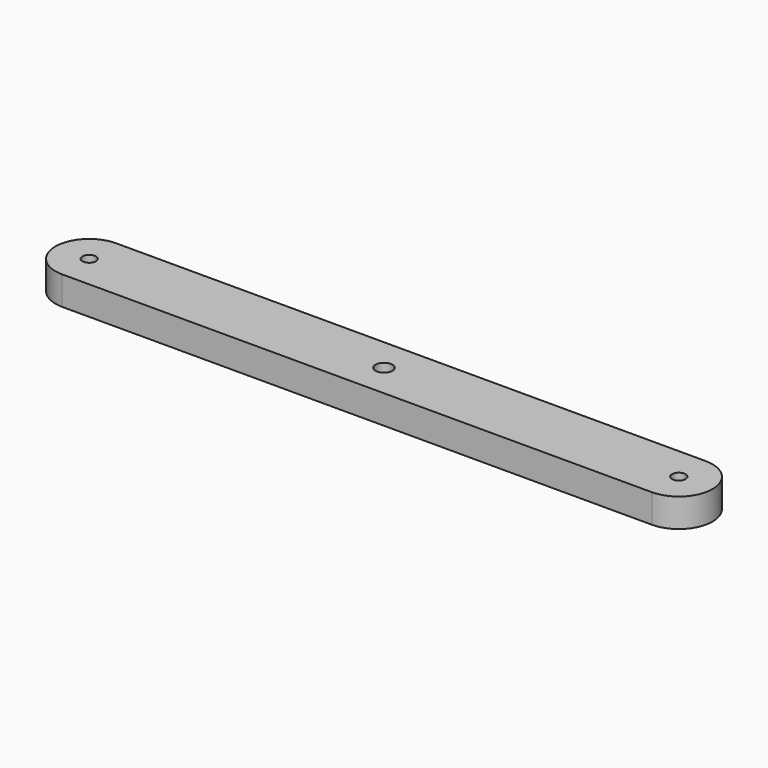
from build123d import *

# Parameters (mm, degrees)
F0_R     = 4
F0_R_2   = 5
F1_DEPTH = 17


with BuildPart() as f1:
    # F0 (on Top) → F1 (new body)
    with BuildSketch(Plane.XY):
        with BuildLine():
            ThreePointArc((175, -19.870425), (195, 0.129575), (175, 20.129575))
            Line((175, 20.129575), (-175, 20.129575))
            ThreePointArc((-175, 20.129575), (-195, 0.129575), (-175, -19.870425))
            Line((-175, -19.870425), (175, -19.870425))
        make_face()
        with Locations((-175, 0.129575)):
            Circle(F0_R, mode=Mode.SUBTRACT)
        with Locations((0, 0.129575)):
            Circle(F0_R_2, mode=Mode.SUBTRACT)
        with Locations((175, 0.129575)):
            Circle(F0_R, mode=Mode.SUBTRACT)
    extrude(amount=F1_DEPTH)


solid = f1.part
